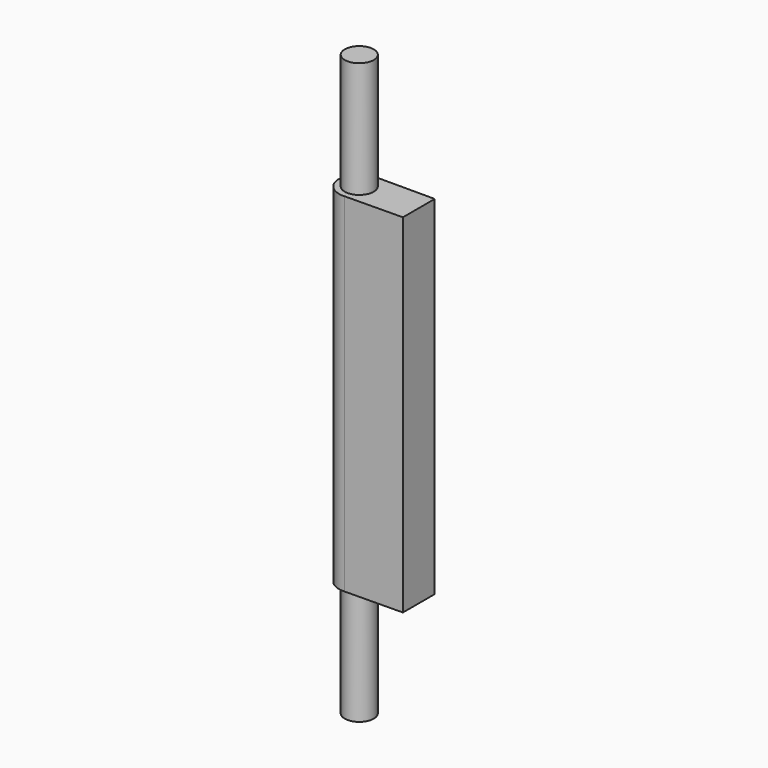
from build123d import *

# Parameters (mm, degrees)
F0_R     = 3.175
F1_DEPTH = 63.5
F2_DEPTH = 38.1


with BuildPart() as f1:
    # F0 (on Top) → F1 (new body, symmetric)
    with BuildSketch(Plane.XY):
        Circle(F0_R)
    extrude(amount=F1_DEPTH, both=True)

    # F0 (on Top) → F2 (join, symmetric)
    with BuildSketch(Plane.XY):
        with BuildLine():
            Line((12.979273, 4.436218), (0.279273, 4.436218))
            ThreePointArc((0.279273, 4.436218), (-4.445, 0), (0.279273, -4.436218))
            Line((0.279273, -4.436218), (12.979273, -4.276188))
            Line((12.979273, -4.276188), (12.979273, 4.436218))
        make_face()
        Circle(F0_R, mode=Mode.SUBTRACT)
    extrude(amount=F2_DEPTH, both=True)


solid = f1.part
